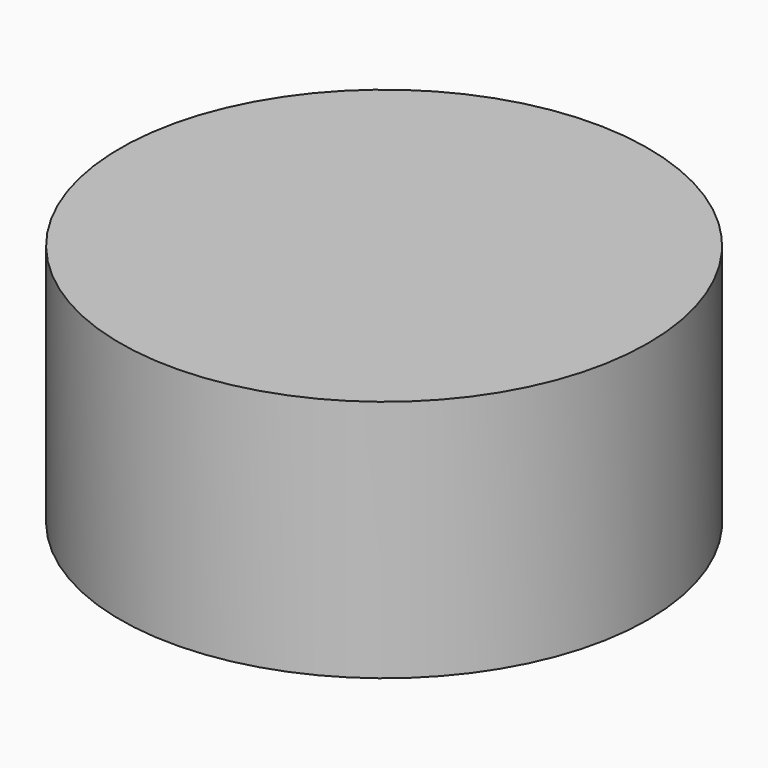
from build123d import *

# Parameters (mm, degrees)
CYLINDER_R     = 16.2687
CYLINDER_DEPTH = 15


with BuildPart() as part:
    # Cylinder → Cylinder (new body)
    with BuildSketch(Plane.XY.offset(-2.5)):
        Circle(CYLINDER_R)
    extrude(amount=CYLINDER_DEPTH)


solid = part.part
